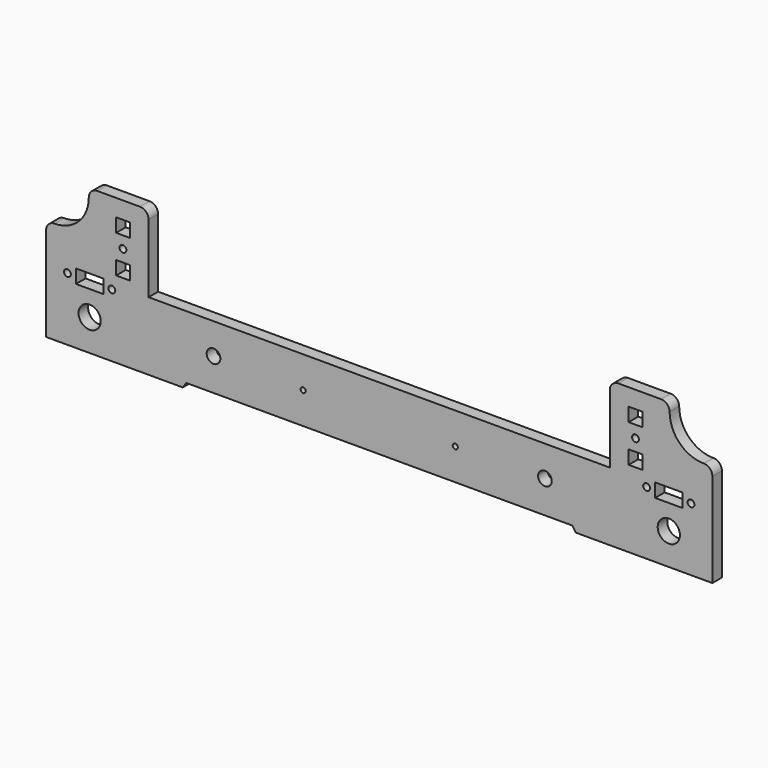
from build123d import *

# Parameters (mm, degrees)
F0_R     = 6.5
F0_R_2   = 2
F0_W     = 16
F0_H     = 8
F0_R_3   = 4
F0_R_4   = 1.5
F0_W_2   = 8
F1_DEPTH = 7


with BuildPart() as f1:
    # F0 (on Front) → F1 (new body)
    with BuildSketch(Plane.XZ):
        with BuildLine():
            Line((-113, 0), (0, 0))
            Line((0, 0), (113, 0))
            Line((113, 0), (115, -3))
            Line((115, -3), (195, -3))
            Line((195, -3), (195, 52))
            ThreePointArc((195, 52), (193.535534, 55.535534), (190, 57))
            ThreePointArc((190, 57), (175.857864, 62.857864), (170, 77))
            ThreePointArc((170, 77), (168.535534, 80.535534), (165, 82))
            Line((165, 82), (140, 82))
            ThreePointArc((140, 82), (136.464466, 80.535534), (135, 77))
            Line((135, 77), (135, 46.753148))
            Line((135, 46.753148), (135, 37))
            Line((135, 37), (0, 37))
            Line((0, 37), (-135, 37))
            Line((-135, 37), (-135, 46.753148))
            Line((-135, 46.753148), (-135, 77))
            ThreePointArc((-135, 77), (-136.464466, 80.535534), (-140, 82))
            Line((-140, 82), (-165, 82))
            ThreePointArc((-165, 82), (-168.535534, 80.535534), (-170, 77))
            ThreePointArc((-170, 77), (-175.857864, 62.857864), (-190, 57))
            ThreePointArc((-190, 57), (-193.535534, 55.535534), (-195, 52))
            Line((-195, 52), (-195, -3))
            Line((-195, -3), (-115, -3))
            Line((-115, -3), (-113, 0))
        make_face()
        with Locations((-169.5, 15.5)):
            Circle(F0_R, mode=Mode.SUBTRACT)
        with Locations((-182.5, 34)):
            Circle(F0_R_2, mode=Mode.SUBTRACT)
        with Locations((-169.5, 34)):
            Rectangle(F0_W, F0_H, mode=Mode.SUBTRACT)
        with Locations((-156.5, 34)):
            Circle(F0_R_2, mode=Mode.SUBTRACT)
        with Locations((-97, 19)):
            Circle(F0_R_3, mode=Mode.SUBTRACT)
        with Locations((-44.5, 18.5)):
            Circle(F0_R_4, mode=Mode.SUBTRACT)
        with Locations((169.5, 15.5)):
            Circle(F0_R, mode=Mode.SUBTRACT)
        with Locations((44.5, 18.5)):
            Circle(F0_R_4, mode=Mode.SUBTRACT)
        with Locations((97, 19)):
            Circle(F0_R_3, mode=Mode.SUBTRACT)
        with Locations((156.5, 34)):
            Circle(F0_R_2, mode=Mode.SUBTRACT)
        with Locations((169.5, 34)):
            Rectangle(F0_W, F0_H, mode=Mode.SUBTRACT)
        with Locations((182.5, 34)):
            Circle(F0_R_2, mode=Mode.SUBTRACT)
        with Locations((-150, 46)):
            Rectangle(F0_W_2, F0_H, mode=Mode.SUBTRACT)
        with Locations((-150, 57)):
            Circle(F0_R_2, mode=Mode.SUBTRACT)
        with Locations((-150, 68)):
            Rectangle(F0_W_2, F0_H, mode=Mode.SUBTRACT)
        with Locations((150, 46)):
            Rectangle(F0_W_2, F0_H, mode=Mode.SUBTRACT)
        with Locations((150, 57)):
            Circle(F0_R_2, mode=Mode.SUBTRACT)
        with Locations((150, 68)):
            Rectangle(F0_W_2, F0_H, mode=Mode.SUBTRACT)
    extrude(amount=F1_DEPTH)


solid = f1.part
